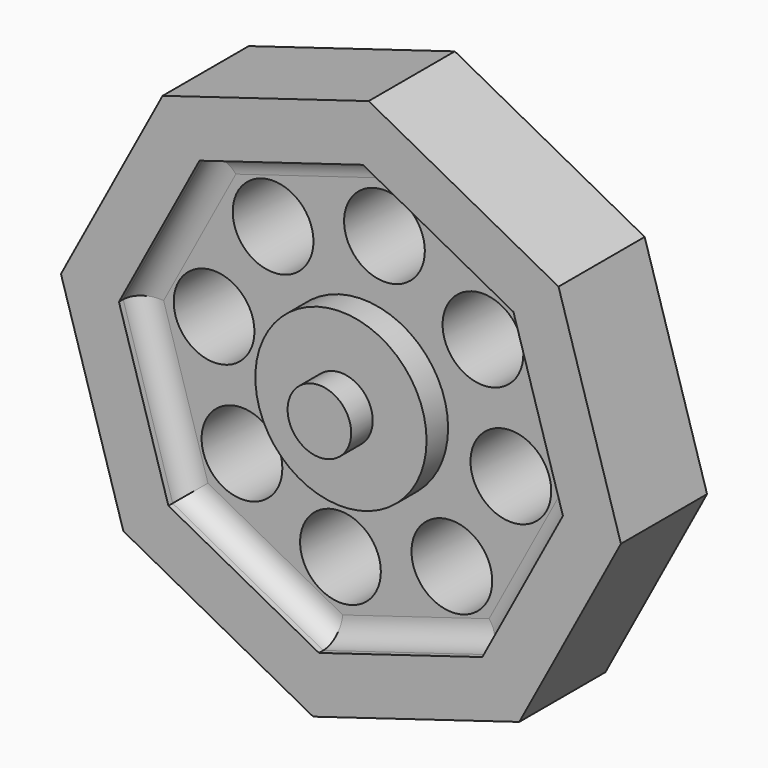
from build123d import *

# Parameters (mm, degrees)
F0_R     = 7.5
F1_DEPTH = 12.7
F2_DEPTH = 19.05
F3_R     = 9.525
F3_R_2   = 20.2
F4_DEPTH = 6.35
F5_DEPTH = 31.751
F6_R     = 5.08


with BuildPart() as f1:
    # F0 (on Front) → F1 (new body, symmetric)
    with BuildSketch(Plane.XZ):
        Polygon((66.049778, -6.546358), (51.333221, 42.075272), (6.546358, 66.049778), (-42.075272, 51.333221), (-66.049778, 6.546358), (-51.333221, -42.075272), (-6.546358, -66.049778), (42.075272, -51.333221), align=None)
        Circle(F0_R, mode=Mode.SUBTRACT)
    extrude(amount=F1_DEPTH, both=True)

    # F0 (on Front) → F2 (join, symmetric)
    with BuildSketch(Plane.XZ):
        Circle(F0_R)
    extrude(amount=F2_DEPTH, both=True)

    # F3 (on face) → F4 (cut)
    with BuildSketch(Plane.XZ.offset(12.7)):
        Polygon((-5.190563, -52.370421), (33.361198, -40.701763), (52.370421, -5.190563), (40.701763, 33.361198), (5.190563, 52.370421), (-33.361198, 40.701763), (-52.370421, 5.190563), (-40.701763, -33.361198), align=None)
        with Locations((-5.190563, -35.008609)):
            Circle(F3_R, mode=Mode.SUBTRACT)
        with Locations((-28.425107, -21.084543)):
            Circle(F3_R, mode=Mode.SUBTRACT)
        with Locations((21.084543, -28.425107)):
            Circle(F3_R, mode=Mode.SUBTRACT)
        Circle(F3_R_2, mode=Mode.SUBTRACT)
        with Locations((35.008609, -5.190563)):
            Circle(F3_R, mode=Mode.SUBTRACT)
        with Locations((-35.008609, 5.190563)):
            Circle(F3_R, mode=Mode.SUBTRACT)
        with Locations((-21.084543, 28.425107)):
            Circle(F3_R, mode=Mode.SUBTRACT)
        with Locations((28.425107, 21.084543)):
            Circle(F3_R, mode=Mode.SUBTRACT)
        with Locations((5.190563, 35.008609)):
            Circle(F3_R, mode=Mode.SUBTRACT)
    extrude(amount=-F4_DEPTH, mode=Mode.SUBTRACT)

    # F3 (on face) → F5 (cut, through all)
    with BuildSketch(Plane.XZ.offset(12.7)):
        with Locations((-35.008609, 5.190563)):
            Circle(F3_R)
        with Locations((-21.084543, 28.425107)):
            Circle(F3_R)
        with Locations((5.190563, 35.008609)):
            Circle(F3_R)
        with Locations((28.425107, 21.084543)):
            Circle(F3_R)
        with Locations((21.084543, -28.425107)):
            Circle(F3_R)
        with Locations((-28.425107, -21.084543)):
            Circle(F3_R)
        with Locations((35.008609, -5.190563)):
            Circle(F3_R)
        with Locations((-5.190563, -35.008609)):
            Circle(F3_R)
    extrude(amount=-F5_DEPTH, mode=Mode.SUBTRACT)

    # F6
    f6_edges = [f1.edges().sort_by_distance(p)[0] for p in [
        (-14.085317, -6.35, 46.536092),
        (-42.86581, -6.35, 22.946163),
        (-46.536092, -6.35, -14.085317),
        (-22.946163, -6.35, -42.86581),
        (22.946163, -6.35, 42.86581),
        (46.536092, -6.35, 14.085317),
        (42.86581, -6.35, -22.946163),
        (14.085317, -6.35, -46.536092),
    ]]
    fillet(f6_edges, radius=F6_R)


solid = f1.part
